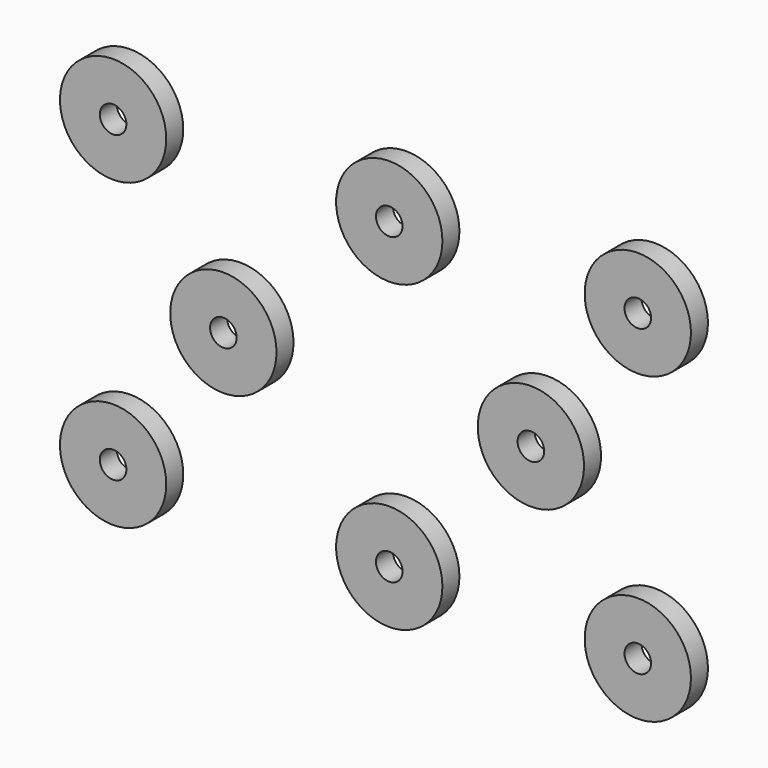
from build123d import *

# Parameters (mm, degrees)
F0_R     = 6.35
F0_R_2   = 1.5875
F1_DEPTH = 2.54


with BuildPart() as f1:
    # F0 (on Front) → F1 (new body)
    with BuildSketch(Plane.XZ):
        with Locations((-32.997321, 18.160142)):
            Circle(F0_R)
        with Locations((-32.997321, 18.160142)):
            Circle(F0_R_2, mode=Mode.SUBTRACT)
        with Locations((0, 18.160142)):
            Circle(F0_R)
        with Locations((0, 18.160142)):
            Circle(F0_R_2, mode=Mode.SUBTRACT)
        with Locations((29.696025, 18.160142)):
            Circle(F0_R)
        with Locations((29.696025, 18.160142)):
            Circle(F0_R_2, mode=Mode.SUBTRACT)
        with Locations((-32.997321, -18.160142)):
            Circle(F0_R)
        with Locations((-32.997321, -18.160142)):
            Circle(F0_R_2, mode=Mode.SUBTRACT)
        with Locations((0, -18.160142)):
            Circle(F0_R)
        with Locations((0, -18.160142)):
            Circle(F0_R_2, mode=Mode.SUBTRACT)
        with Locations((29.696025, -18.160142)):
            Circle(F0_R)
        with Locations((29.696025, -18.160142)):
            Circle(F0_R_2, mode=Mode.SUBTRACT)
        with Locations((-19.821107, 0)):
            Circle(F0_R)
        with Locations((-19.821107, 0)):
            Circle(F0_R_2, mode=Mode.SUBTRACT)
        with Locations((16.922437, 0)):
            Circle(F0_R)
        with Locations((16.922437, 0)):
            Circle(F0_R_2, mode=Mode.SUBTRACT)
    extrude(amount=F1_DEPTH)


solid = f1.part
